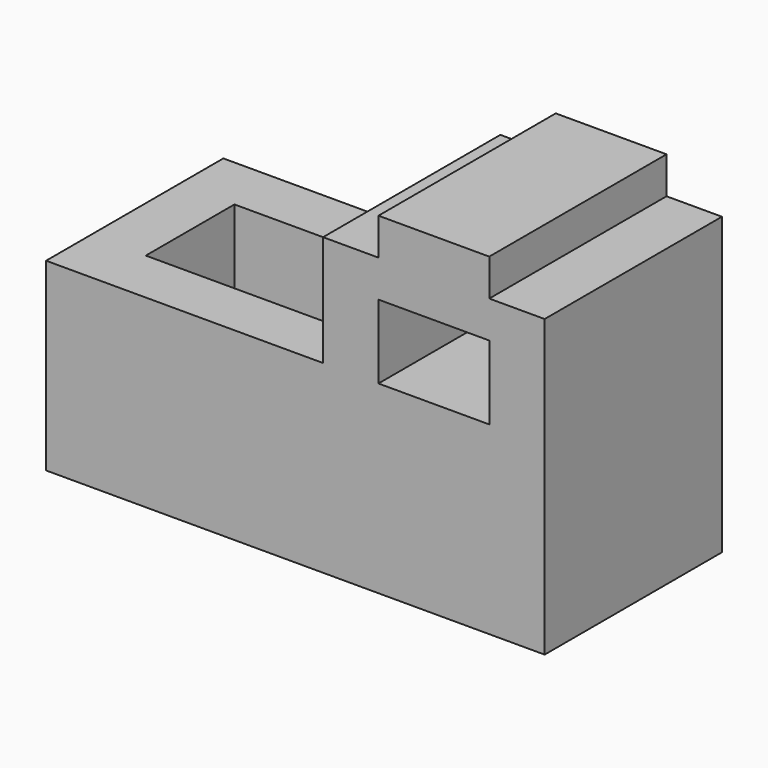
from build123d import *

# Parameters (mm, degrees)
F0_W     = 609.6
F0_H     = 406.4
F1_DEPTH = 1219.2
F2_W     = 609.6
F2_H     = 406.4
F3_DEPTH = 1219.201
F5_DEPTH = 609.6


with BuildPart() as f1:
    # F0 (on Front) → F1 (new body)
    with BuildSketch(Plane.XZ):
        Polygon((-76.304249, 940.026094), (-76.304249, -75.973906), (2666.895751, -75.973906), (2666.895751, 1549.626094), (2362.095751, 1549.626094), (2362.095751, 1752.826094), (1752.495751, 1752.826094), (1752.495751, 1549.626094), (1447.695751, 1549.626094), (1447.695751, 940.026094), align=None)
        with Locations((2057.295751, 1143.226094)):
            Rectangle(F0_W, F0_H, mode=Mode.SUBTRACT)
        with Locations((2057.295751, 1143.226094)):
            Rectangle(F0_W, F0_H)
    extrude(amount=F1_DEPTH)

    # F2 (on face) → F3 (cut, through all)
    with BuildSketch(Plane.XZ.offset(1219.2)):
        with Locations((2057.295751, 1143.226094)):
            Rectangle(F2_W, F2_H)
    extrude(amount=-F3_DEPTH, mode=Mode.SUBTRACT)

    # F4 (on face) → F5 (cut)
    with BuildSketch(Plane.XY.offset(940.026094)):
        Polygon((228.495751, -609.6), (228.495751, -914.4), (1447.695751, -914.4), (1447.695751, -304.8), (228.495751, -304.8), align=None)
    extrude(amount=-F5_DEPTH, mode=Mode.SUBTRACT)


solid = f1.part
